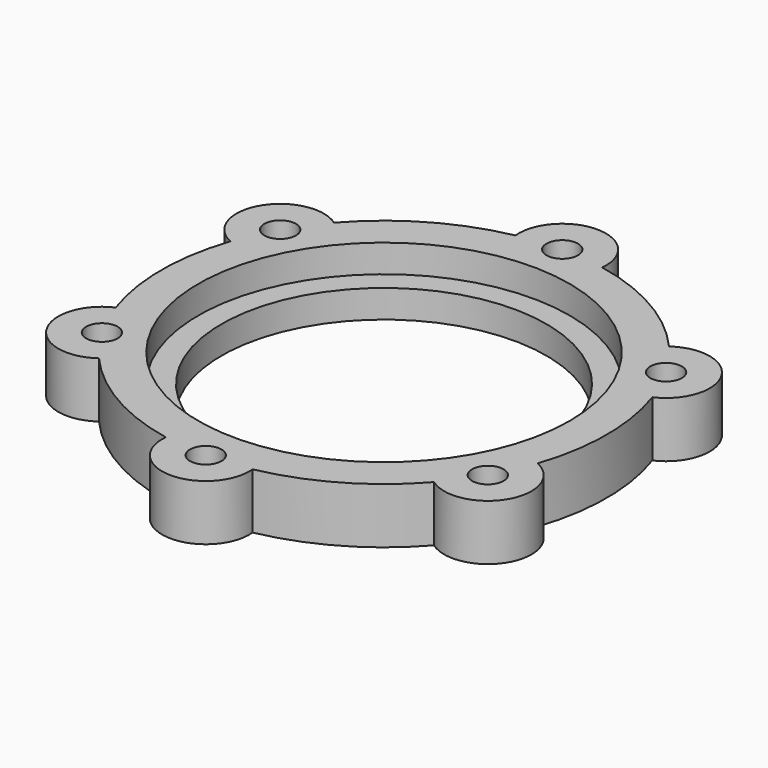
from build123d import *

# Parameters (mm, degrees)
CYLINDER002_R     = 17.5
CYLINDER002_DEPTH = 10
CYLINDER_R        = 20
CYLINDER_DEPTH    = 3
CYLINDER003_R     = 1.7
CYLINDER003_DEPTH = 10
ARRAY001_COUNT    = 6
CYLINDER001_R     = 24
CYLINDER001_DEPTH = 6
CYLINDER004_R     = 4.7
CYLINDER004_DEPTH = 6
ARRAY_COUNT       = 6


with BuildPart() as cylinder002:
    # Cylinder002 → Cylinder002 (new body)
    with BuildSketch(Plane.XY):
        Circle(CYLINDER002_R)
    extrude(amount=CYLINDER002_DEPTH)


with BuildPart() as cylinder:
    # Cylinder → Cylinder (new body)
    with BuildSketch(Plane.XY.offset(3)):
        Circle(CYLINDER_R)
    extrude(amount=CYLINDER_DEPTH)


with BuildPart() as fusion001:
    # Cylinder003 → Cylinder003 (new body)
    with BuildSketch(Plane(origin=(0, -24, 0), x_dir=(1, 0, 0), z_dir=(0, 0, 1))):
        Circle(CYLINDER003_R)
    extrude(amount=CYLINDER003_DEPTH)

    # Array001: Fusion001 ×6 about axis
    array001_axis = Axis((0, 0, 0), (0, 0, 1))


with BuildPart() as fusion001_1:
    add(fusion001.part)
    for i in range(1, ARRAY001_COUNT):
        add(fusion001.part.rotate(array001_axis, i * 360 / ARRAY001_COUNT))

    # Fusion001: union Cylinder002, Cylinder
    add(cylinder002.part)
    add(cylinder.part)


with BuildPart() as cylinder001:
    # Cylinder001 → Cylinder001 (new body)
    with BuildSketch(Plane.XY):
        Circle(CYLINDER001_R)
    extrude(amount=CYLINDER001_DEPTH)


with BuildPart() as cut:
    # Cylinder004 → Cylinder004 (new body)
    with BuildSketch(Plane(origin=(0, -24, 0), x_dir=(1, 0, 0), z_dir=(0, 0, 1))):
        Circle(CYLINDER004_R)
    extrude(amount=CYLINDER004_DEPTH)

    # Array: Cut ×6 about axis
    array_axis = Axis((0, 0, 0), (0, 0, 1))


with BuildPart() as cut_1:
    add(cut.part)
    for i in range(1, ARRAY_COUNT):
        add(cut.part.rotate(array_axis, i * 360 / ARRAY_COUNT))

    # Fusion: union Cylinder001
    add(cylinder001.part)

    # Cut: cut Fusion001
    add(fusion001_1.part, mode=Mode.SUBTRACT)


solid = cut_1.part
